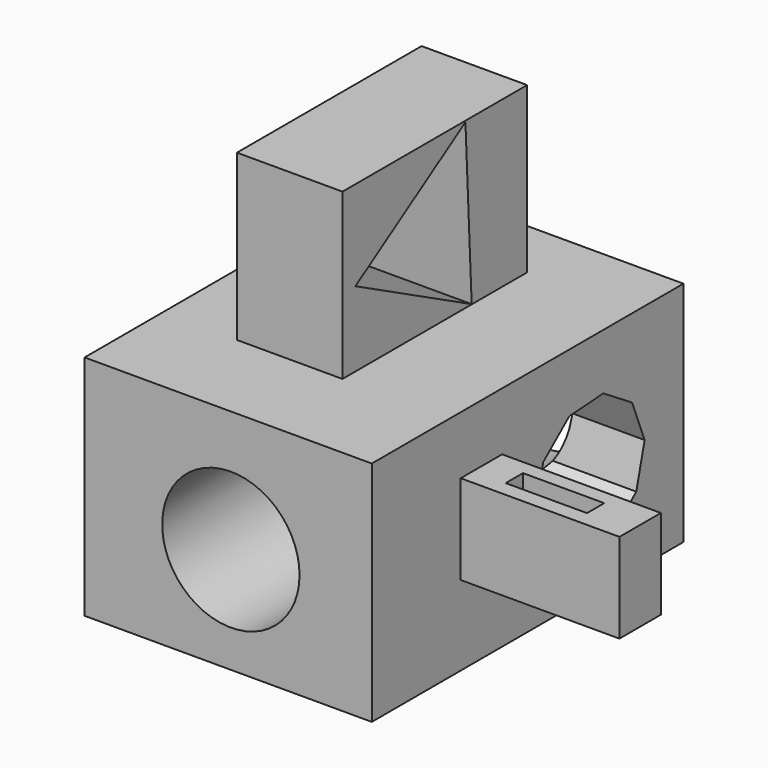
from build123d import *

# Parameters (mm, degrees)
F0_W      = 94.7674
F0_H      = 75.057
F1_DEPTH  = 64.262
F2_W      = 34.8323993385
F2_H      = 76.1452428997
F3_DEPTH  = 92.202
F4_W      = 17.0815913007
F4_H      = 29.5642912388
F5_DEPTH  = 111.506
F6_W      = 26.8206745386
F6_H      = 7.122894749
F7_DEPTH  = 117.3734
F8_R      = 22.6565007862
F9_DEPTH  = 114.554
F11_DEPTH = 73.406
F13_DEPTH = 151.384


with BuildPart() as f1:
    # F0 (on Front) → F1 (new body, symmetric)
    with BuildSketch(Plane.XZ):
        with Locations((11.7503735555, 0.2659336123)):
            Rectangle(F0_W, F0_H)
    extrude(amount=F1_DEPTH, both=True)

    # F2 (on Top) → F3 (join)
    with BuildSketch(Plane.XY):
        with Locations((6.345430389, 5.9404056519)):
            Rectangle(F2_W, F2_H)
    extrude(amount=F3_DEPTH)

    # F4 (on Right) → F5 (join)
    with BuildSketch(Plane.YZ):
        with Locations((-19.0525432117, 3.8324072957)):
            Rectangle(F4_W, F4_H)
    extrude(amount=F5_DEPTH)

    # F6 (on face) → F7 (cut)
    with BuildSketch(Plane.XY.offset(18.6145529151)):
        with Locations((83.2830891013, -18.9009504393)):
            Rectangle(F6_W, F6_H)
    extrude(amount=-F7_DEPTH, mode=Mode.SUBTRACT)

    # F8 (on Front) → F9 (cut, symmetric)
    with BuildSketch(Plane.XZ):
        with Locations((12.634399347, -2.3397030309)):
            Circle(F8_R)
    extrude(amount=F9_DEPTH, both=True, mode=Mode.SUBTRACT)

    # F10 (on face) → F11 (cut, symmetric)
    with BuildSketch(Plane.YZ.offset(23.7616300583)):
        Polygon((18.5735931468, 91.7536235383), (-26.8142361042, 62.575721092), (21.1484832689, 37.8576591611), align=None)
    extrude(amount=F11_DEPTH, both=True, mode=Mode.SUBTRACT)

    # F12 (on face) → F13 (cut)
    with BuildSketch(Plane(origin=(-35.6333264445, 0, 0), x_dir=(0, -1, 0), z_dir=(-1, 0, 0))):
        Polygon((-2.9979522495, -4.1226996567), (-6.4409147017, 9.4672488049), (-17.2143011216, 18.4380255093), (-31.2030440708, 19.3630986611), (-43.0639192026, 11.8891217583), (-48.2664753528, -1.1291000534), (-44.8235129006, -14.719048515), (-34.0501264807, -23.6898252194), (-20.0613835315, -24.6148983712), (-8.2005083997, -17.1409214684), align=None)
    extrude(amount=-F13_DEPTH, mode=Mode.SUBTRACT)


solid = f1.part
